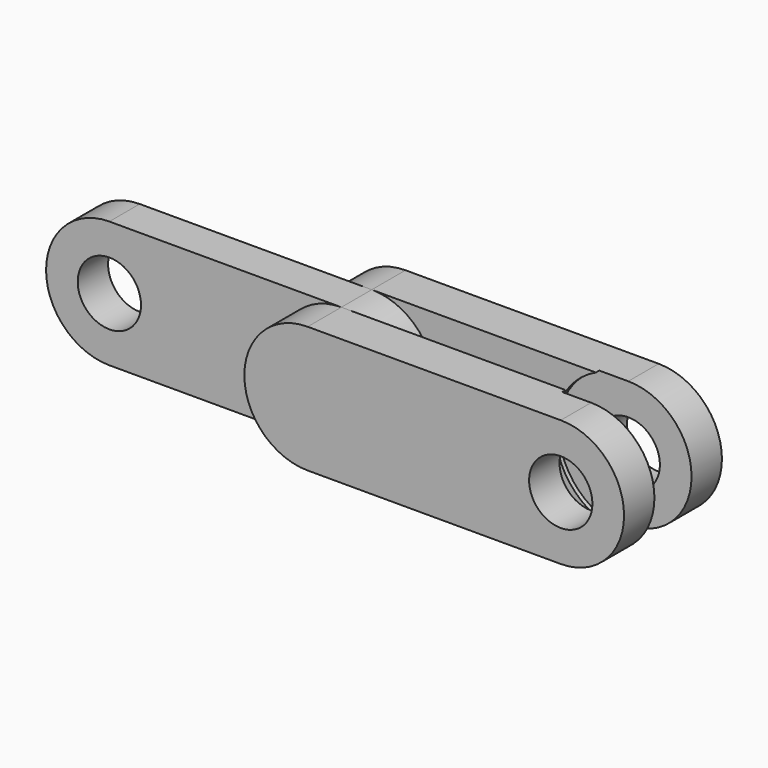
from build123d import *

# Parameters (mm, degrees)
F0_R           = 3
F1_DEPTH       = 3.6
F3_DEPTH       = 4
F5_DEPTH       = 4
F7_R           = 6.6
F9_DEPTH       = 0.4
F8_R           = 6.6
F10_DEPTH      = 0.4
F6_R           = 3
F11_DEPTH      = 7.601
F11_DEPTH_BACK = 4.001


with BuildPart() as f1:
    # F0 (on Front) → F1 (new body)
    with BuildSketch(Plane.XZ):
        with BuildLine():
            Line((22, 12), (0, 12))
            ThreePointArc((0, 12), (-6, 6), (0, 0))
            Line((0, 0), (22, 0))
            ThreePointArc((22, 0), (28, 6), (22, 12))
        make_face()
        with Locations((0, 6)):
            Circle(F0_R, mode=Mode.SUBTRACT)
    extrude(amount=F1_DEPTH)

    # F2 (on Front) → F3 (join)
    with BuildSketch(Plane.XZ):
        with BuildLine():
            Line((46, 12), (22, 12))
            ThreePointArc((22, 12), (16, 6), (22, 0))
            Line((22, 0), (46, 0))
            ThreePointArc((46, 0), (52, 6), (46, 12))
        make_face()
    extrude(amount=-F3_DEPTH)

    # F4 (on face) → F5 (join)
    with BuildSketch(Plane.XZ.offset(3.6)):
        with BuildLine():
            Line((46, 12), (22, 12))
            ThreePointArc((22, 12), (16, 6), (22, 0))
            Line((22, 0), (46, 0))
            ThreePointArc((46, 0), (52, 6), (46, 12))
        make_face()
    extrude(amount=F5_DEPTH)

    # F7 (on face) → F9 (cut)
    with BuildSketch(Plane(origin=(0, -3.6, 0), x_dir=(-1, 0, 0), z_dir=(0, 1, 0))):
        with Locations((-46, 6)):
            Circle(F7_R)
    extrude(amount=-F9_DEPTH, mode=Mode.SUBTRACT)

    # F8 (on face) → F10 (cut)
    with BuildSketch(Plane.XZ):
        with Locations((46, 6)):
            Circle(F8_R)
    extrude(amount=-F10_DEPTH, mode=Mode.SUBTRACT)

    # F6 (on face) → F11 (cut, two sides)
    with BuildSketch(Plane.XZ) as f11_sk:
        with Locations((46, 6)):
            Circle(F6_R)
    extrude(amount=F11_DEPTH, mode=Mode.SUBTRACT)
    extrude(f11_sk.sketch, amount=-F11_DEPTH_BACK, mode=Mode.SUBTRACT)


solid = f1.part
